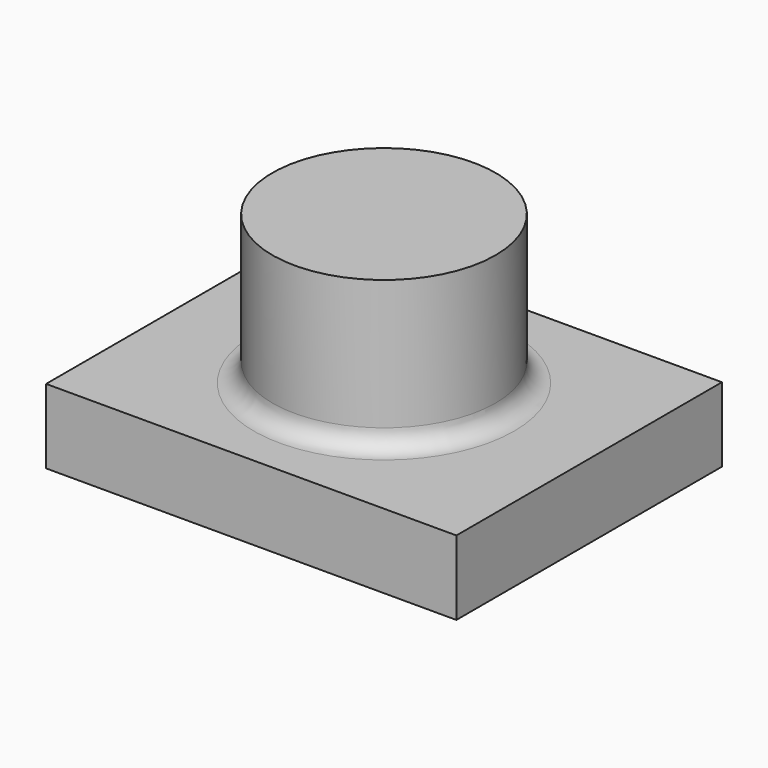
from build123d import *

# Parameters (mm, degrees)
F0_R     = 38.1
F1_DEPTH = 76.2
F2_W     = 140.091866
F2_H     = 113.32272
F3_DEPTH = 25.4
F4_R     = 6.35


with BuildPart() as f1:
    # F0 (on Top) → F1 (new body)
    with BuildSketch(Plane.XY):
        Circle(F0_R)
    extrude(amount=F1_DEPTH)

    # F2 (on Top) → F3 (join)
    with BuildSketch(Plane.XY):
        Rectangle(F2_W, F2_H)
    extrude(amount=F3_DEPTH)

    # F4
    f4_edges = [f1.edges().sort_by_distance(p)[0] for p in [
        (-38.1, 0, 25.4),
    ]]
    fillet(f4_edges, radius=F4_R)


solid = f1.part
